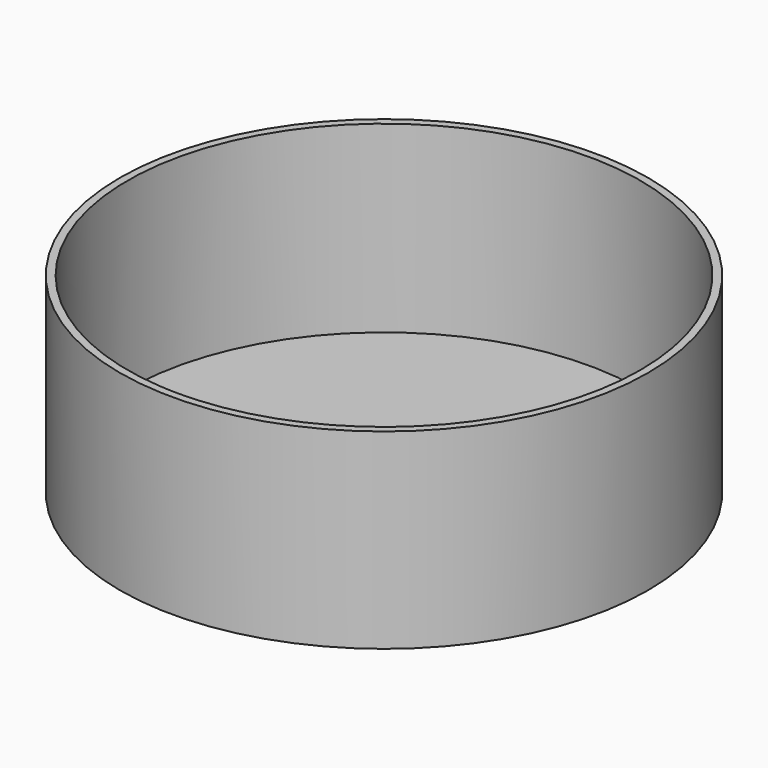
from build123d import *

# Parameters (mm, degrees)
F0_R     = 34.5
F1_DEPTH = 1
F2_DEPTH = 25


with BuildPart() as f1:
    # F0 (on Top) → F1 (new body)
    with BuildSketch(Plane.XY):
        Circle(F0_R)
        with BuildLine():
            ThreePointArc((-2.5, -33.406586), (-22.787058, 24.556058), (33.5, 0))
            ThreePointArc((33.5, 0), (24.556058, -22.787058), (2.5, -33.406586))
            ThreePointArc((2.5, -33.406586), (0, -33.5), (-2.5, -33.406586))
        make_face(mode=Mode.SUBTRACT)
        with BuildLine():
            ThreePointArc((2.5, -33.406586), (24.556058, -22.787058), (33.5, 0))
            ThreePointArc((33.5, 0), (-22.787058, 24.556058), (-2.5, -33.406586))
            Line((-2.5, -33.406586), (-2.5, -31))
            ThreePointArc((-2.5, -31), (0, -28.5), (2.5, -31))
            Line((2.5, -31), (2.5, -33.406586))
        make_face()
    extrude(amount=F1_DEPTH)

    # F0 (on Top) → F2 (join)
    with BuildSketch(Plane.XY):
        Circle(F0_R)
        with BuildLine():
            ThreePointArc((-2.5, -33.406586), (-22.787058, 24.556058), (33.5, 0))
            ThreePointArc((33.5, 0), (24.556058, -22.787058), (2.5, -33.406586))
            ThreePointArc((2.5, -33.406586), (0, -33.5), (-2.5, -33.406586))
        make_face(mode=Mode.SUBTRACT)
    extrude(amount=F2_DEPTH)


solid = f1.part
